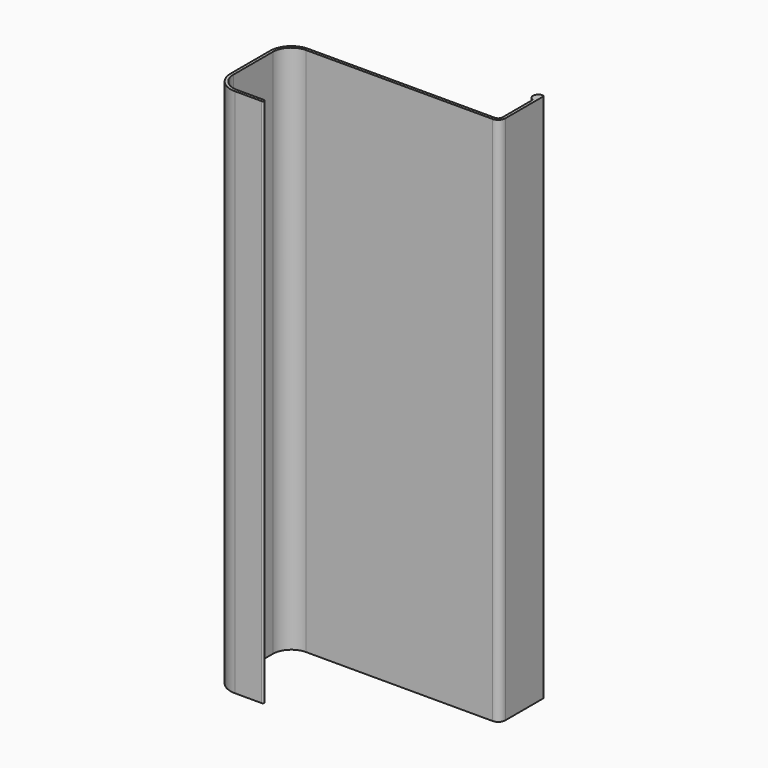
from build123d import *

# Parameters (mm, degrees)
F1_DEPTH = 150


with BuildPart() as f1:
    # F0 (on Top) → F1 (new body)
    with BuildSketch(Plane.XY):
        with BuildLine():
            Line((0, 20), (0, 6))
            ThreePointArc((0, 6), (1.757359, 1.757359), (6, 0))
            Line((6, 0), (13.6, 0))
            ThreePointArc((13.6, 0), (13.882843, 0.117157), (14, 0.4))
            ThreePointArc((14, 0.4), (13.882843, 0.682843), (13.6, 0.8))
            Line((13.6, 0.8), (6, 0.8))
            ThreePointArc((6, 0.8), (2.323045, 2.323045), (0.8, 6))
            Line((0.8, 6), (0.8, 20))
            ThreePointArc((0.8, 20), (2.323045, 23.676955), (6, 25.2))
            Line((6, 25.2), (58.8, 25.2))
            ThreePointArc((58.8, 25.2), (60.214214, 25.785786), (60.8, 27.2))
            Line((60.8, 27.2), (60.8, 40.5))
            ThreePointArc((60.8, 40.5), (60.653553, 40.853553), (60.3, 41))
            ThreePointArc((60.3, 41), (58.831641, 39.806464), (59.7, 38.125227))
            ThreePointArc((59.7, 38.125227), (59.91833, 37.940831), (60, 37.66697))
            Line((60, 37.66697), (60, 27.2))
            ThreePointArc((60, 27.2), (59.648528, 26.351472), (58.8, 26))
            Line((58.8, 26), (6, 26))
            ThreePointArc((6, 26), (1.757359, 24.242641), (0, 20))
        make_face()
    extrude(amount=F1_DEPTH)


solid = f1.part
